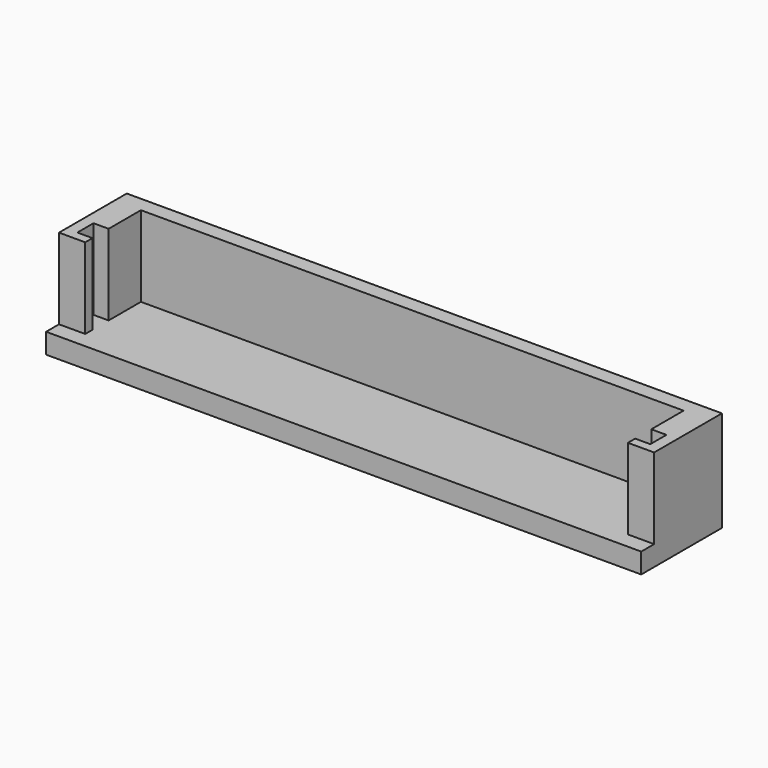
from build123d import *

# Parameters (mm, degrees)
PAD001_DEPTH = 10
SKETCH_W     = 59
SKETCH_H     = 10
PAD_DEPTH    = 2


with BuildPart() as pad001:
    # Sketch001 → Pad001 (new body)
    with BuildSketch(Plane.XY):
        Polygon((0, 0), (0, -8.4), (2.6, -8.4), (2.6, -7.5), (1.1, -7.5), (1.1, -5.5), (2.6, -5.5), (2.6, -1.5), (56.4, -1.5), (56.4, -5.5), (57.9, -5.5), (57.9, -7.5), (56.4, -7.5), (56.4, -8.4), (59, -8.4), (59, 0), align=None)
    extrude(amount=PAD001_DEPTH)


with BuildPart() as fusion:
    # Sketch → Pad (new body)
    with BuildSketch(Plane.XY):
        with Locations((29.5, -5)):
            Rectangle(SKETCH_W, SKETCH_H)
    extrude(amount=PAD_DEPTH)

    # Fusion: union Pad001
    add(pad001.part)


solid = fusion.part
